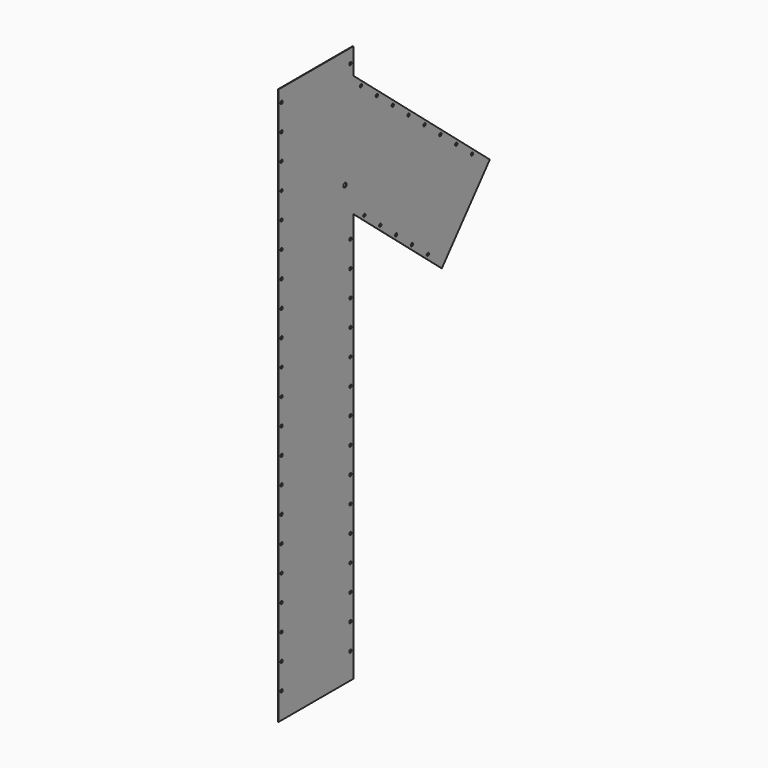
from build123d import *

# Parameters (mm, degrees)
F1_DEPTH = 2
F2_R     = 8
F2_R_2   = 5.5
F3_DEPTH = 25


with BuildPart() as f1:
    # F0 (on Right) → F1 (new body)
    with BuildSketch(Plane.YZ):
        Polygon((0, 2050), (0, 0), (360, 0), (360, 1580.053376), (787.394682, 1221.426656), (1018.798221, 1497.202656), (360, 2050), (360, 2150), (0, 2150), align=None)
    extrude(amount=F1_DEPTH)

    # F2 (on face) → F3 (cut)
    with BuildSketch(Plane.YZ.offset(2)):
        with Locations((320, 1694.388583)):
            Circle(F2_R)
        with Locations((14, 100)):
            Circle(F2_R_2)
        with Locations((346, 100)):
            Circle(F2_R_2)
        with Locations((719.789264, 1296.430039)):
            Circle(F2_R_2)
        with Locations((933.19475, 1550.756794)):
            Circle(F2_R_2)
        with Locations((346, 2096.735846)):
            Circle(F2_R_2)
        with Locations((14, 200)):
            Circle(F2_R_2)
        with Locations((14, 300)):
            Circle(F2_R_2)
        with Locations((14, 400)):
            Circle(F2_R_2)
        with Locations((14, 500)):
            Circle(F2_R_2)
        with Locations((14, 600)):
            Circle(F2_R_2)
        with Locations((14, 700)):
            Circle(F2_R_2)
        with Locations((14, 800)):
            Circle(F2_R_2)
        with Locations((14, 900)):
            Circle(F2_R_2)
        with Locations((14, 1000)):
            Circle(F2_R_2)
        with Locations((14, 1100)):
            Circle(F2_R_2)
        with Locations((14, 1200)):
            Circle(F2_R_2)
        with Locations((14, 1300)):
            Circle(F2_R_2)
        with Locations((14, 1400)):
            Circle(F2_R_2)
        with Locations((14, 1500)):
            Circle(F2_R_2)
        with Locations((14, 1600)):
            Circle(F2_R_2)
        with Locations((14, 1700)):
            Circle(F2_R_2)
        with Locations((14, 1800)):
            Circle(F2_R_2)
        with Locations((14, 1900)):
            Circle(F2_R_2)
        with Locations((14, 2000)):
            Circle(F2_R_2)
        with Locations((14, 2100)):
            Circle(F2_R_2)
        with Locations((346, 200)):
            Circle(F2_R_2)
        with Locations((346, 300)):
            Circle(F2_R_2)
        with Locations((346, 400)):
            Circle(F2_R_2)
        with Locations((346, 500)):
            Circle(F2_R_2)
        with Locations((346, 600)):
            Circle(F2_R_2)
        with Locations((346, 700)):
            Circle(F2_R_2)
        with Locations((346, 800)):
            Circle(F2_R_2)
        with Locations((346, 900)):
            Circle(F2_R_2)
        with Locations((346, 1000)):
            Circle(F2_R_2)
        with Locations((346, 1100)):
            Circle(F2_R_2)
        with Locations((346, 1200)):
            Circle(F2_R_2)
        with Locations((346, 1300)):
            Circle(F2_R_2)
        with Locations((346, 1400)):
            Circle(F2_R_2)
        with Locations((346, 1500)):
            Circle(F2_R_2)
        with Locations((643.18482, 1360.7088)):
            Circle(F2_R_2)
        with Locations((566.580375, 1424.987561)):
            Circle(F2_R_2)
        with Locations((489.975931, 1489.266322)):
            Circle(F2_R_2)
        with Locations((413.371487, 1553.545083)):
            Circle(F2_R_2)
        with Locations((856.590306, 1615.035555)):
            Circle(F2_R_2)
        with Locations((779.985862, 1679.314316)):
            Circle(F2_R_2)
        with Locations((703.381417, 1743.593077)):
            Circle(F2_R_2)
        with Locations((626.776973, 1807.871838)):
            Circle(F2_R_2)
        with Locations((550.172529, 1872.150599)):
            Circle(F2_R_2)
        with Locations((473.568084, 1936.42936)):
            Circle(F2_R_2)
        with Locations((396.96364, 2000.708121)):
            Circle(F2_R_2)
    extrude(amount=-F3_DEPTH, mode=Mode.SUBTRACT)


solid = f1.part
